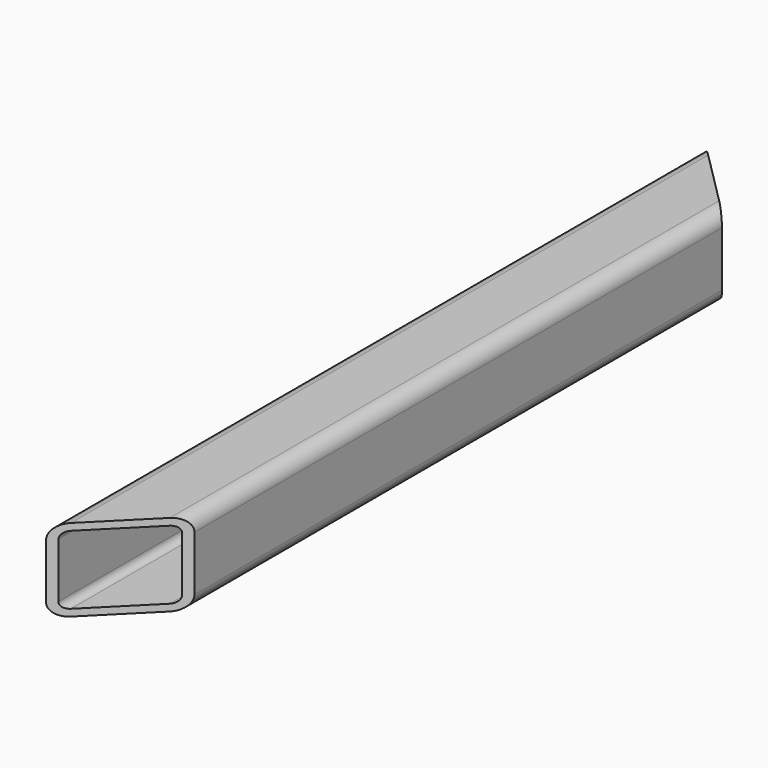
from build123d import *

# Parameters (mm, degrees)
F1_DEPTH = 381
F3_DEPTH = 50.8


with BuildPart() as f1:
    # F0 (on Front) → F1 (new body, symmetric)
    with BuildSketch(Plane.XZ):
        with BuildLine():
            ThreePointArc((38.1, 25.4), (34.3802561211, 34.3802561211), (25.4, 38.1))
            Line((25.4, 38.1), (-25.4, 38.1))
            ThreePointArc((-25.4, 38.1), (-34.3802561211, 34.3802561211), (-38.1, 25.4))
            Line((-38.1, 25.4), (-38.1, -25.4))
            ThreePointArc((-38.1, -25.4), (-34.3802561211, -34.3802561211), (-25.4, -38.1))
            Line((-25.4, -38.1), (25.4, -38.1))
            ThreePointArc((25.4, -38.1), (34.3802561211, -34.3802561211), (38.1, -25.4))
            Line((38.1, -25.4), (38.1, 25.4))
        make_face()
        with BuildLine():
            ThreePointArc((25.4, 31.7500010133), (29.890128777, 29.890128777), (31.7500010133, 25.4))
            Line((31.7500010133, 25.4), (31.7500010133, -25.4))
            ThreePointArc((31.7500010133, -25.4), (29.890128777, -29.890128777), (25.4, -31.7500010133))
            Line((25.4, -31.7500010133), (-25.4, -31.7500010133))
            ThreePointArc((-25.4, -31.7500010133), (-29.890128777, -29.890128777), (-31.7500010133, -25.4))
            Line((-31.7500010133, -25.4), (-31.7500010133, 25.4))
            ThreePointArc((-31.7500010133, 25.4), (-29.890128777, 29.890128777), (-25.4, 31.7500010133))
            Line((-25.4, 31.7500010133), (25.4, 31.7500010133))
        make_face(mode=Mode.SUBTRACT)
    extrude(amount=F1_DEPTH, both=True)

    # F2 (on Top) → F3 (cut, symmetric)
    with BuildSketch(Plane.XY):
        Polygon((38.1, -304.8), (-38.1, -381), (38.1, -381), align=None)
        Polygon((38.1, 381), (-38.1, 381), (38.1, 304.8), align=None)
    extrude(amount=F3_DEPTH, both=True, mode=Mode.SUBTRACT)


solid = f1.part
